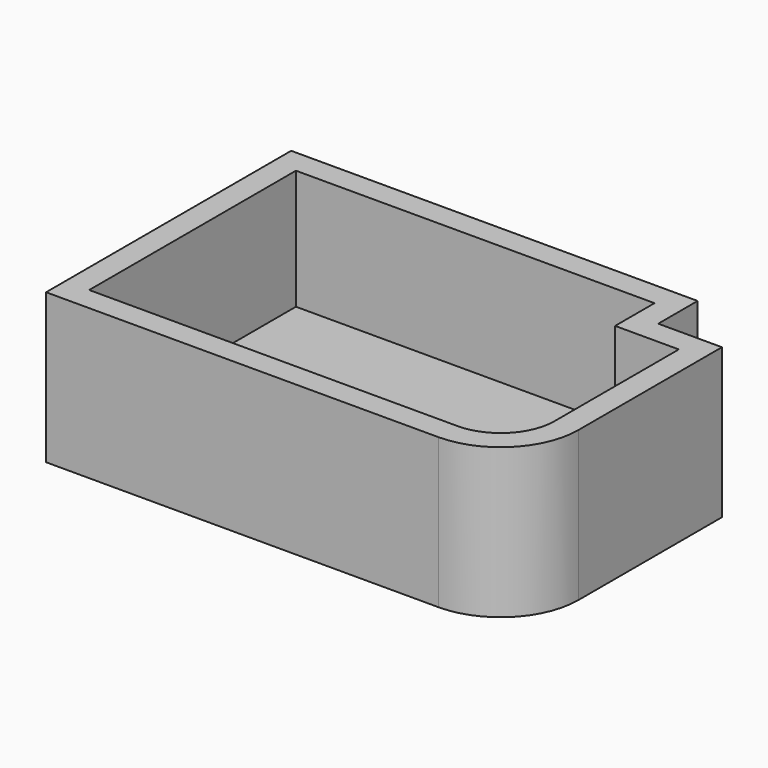
from build123d import *

# Parameters (mm, degrees)
F1_DEPTH = 25
F2_DEPTH = 20


with BuildPart() as f1:
    # F0 (on Top) → F1 (new body)
    with BuildSketch(Plane.XY):
        with BuildLine():
            Line((-39.262523, -25.579568), (26.262523, -25.579568))
            ThreePointArc((26.262523, -25.579568), (35.454912, -21.771956), (39.262523, -12.579568))
            Line((39.262523, -12.579568), (39.262523, 17.352654))
            Line((39.262523, 17.352654), (28.624193, 17.352654))
            Line((28.624193, 17.352654), (28.624193, 25.579568))
            Line((28.624193, 25.579568), (-39.262523, 25.579568))
            Line((-39.262523, 25.579568), (-39.262523, -25.579568))
        make_face()
        with BuildLine():
            Line((24.624193, 21.579568), (24.624193, 13.352654))
            Line((24.624193, 13.352654), (35.262523, 13.352654))
            Line((35.262523, 13.352654), (35.262523, -12.579568))
            ThreePointArc((35.262523, -12.579568), (32.626484, -18.943529), (26.262523, -21.579568))
            Line((26.262523, -21.579568), (-35.262523, -21.579568))
            Line((-35.262523, -21.579568), (-35.262523, 21.579568))
            Line((-35.262523, 21.579568), (24.624193, 21.579568))
        make_face(mode=Mode.SUBTRACT)
        with BuildLine():
            Line((35.262523, 13.352654), (24.624193, 13.352654))
            Line((24.624193, 13.352654), (24.624193, 21.579568))
            Line((24.624193, 21.579568), (-35.262523, 21.579568))
            Line((-35.262523, 21.579568), (-35.262523, -21.579568))
            Line((-35.262523, -21.579568), (26.262523, -21.579568))
            ThreePointArc((26.262523, -21.579568), (32.626484, -18.943529), (35.262523, -12.579568))
            Line((35.262523, -12.579568), (35.262523, 13.352654))
        make_face()
    extrude(amount=-F1_DEPTH)

    # F0 (on Top) → F2 (cut)
    with BuildSketch(Plane.XY):
        with BuildLine():
            Line((35.262523, 13.352654), (24.624193, 13.352654))
            Line((24.624193, 13.352654), (24.624193, 21.579568))
            Line((24.624193, 21.579568), (-35.262523, 21.579568))
            Line((-35.262523, 21.579568), (-35.262523, -21.579568))
            Line((-35.262523, -21.579568), (26.262523, -21.579568))
            ThreePointArc((26.262523, -21.579568), (32.626484, -18.943529), (35.262523, -12.579568))
            Line((35.262523, -12.579568), (35.262523, 13.352654))
        make_face()
    extrude(amount=-F2_DEPTH, mode=Mode.SUBTRACT)


solid = f1.part
